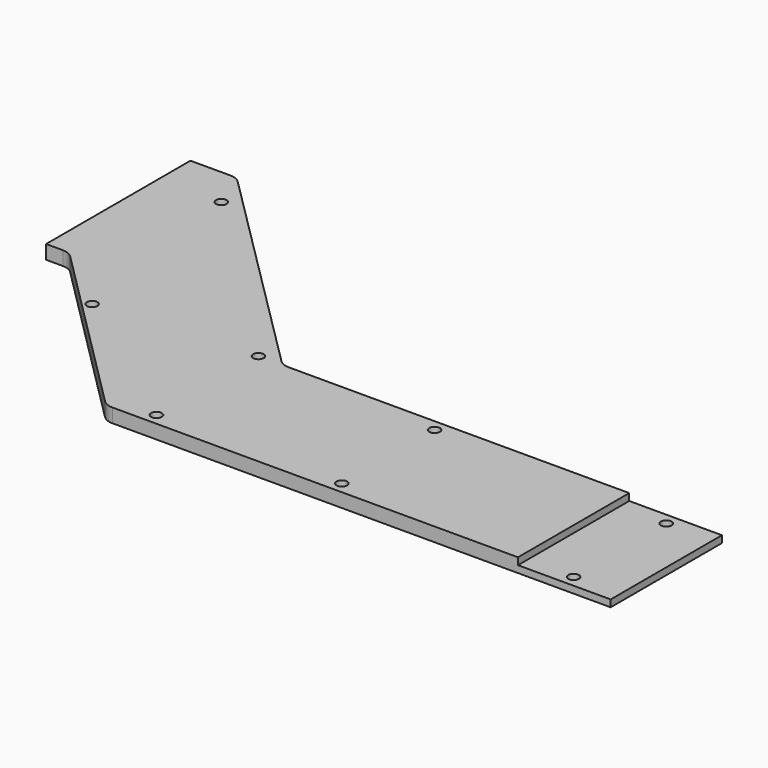
from build123d import *

# Parameters (mm, degrees)
PAD011_DEPTH            = 3
FILLET036_R             = 3.35
SKETCH183_R             = 1.15
POCKET052_DEPTH         = 3
POCKET054_DEPTH         = 5
SKETCH187_W             = 31
SKETCH187_H             = 20
POCKET055_DEPTH         = 1.5
BODY023_ROLL_ANGLE      = 180
BODY023_PLACEMENT_ANGLE = -90


with BuildPart() as part:
    # Sketch182 → Pad011 (new body)
    with BuildSketch(Plane(origin=(0, 0, 0), x_dir=(1, 0, 0), z_dir=(0, 0, -1))):
        Polygon((101.467362, -402.500006), (130.400002, -402.500006), (135.400002, -402.500006), (135.400002, -397.500006), (174.999975, -357.90402), (174.999975, -245), (289.999995, -245), (294.999995, -245), (294.999995, -215), (289.999995, -215), (224.999995, -215), (224.999995, -199.999997), (219.999995, -199.999997), (199.999995, -199.999997), (194.999995, -199.999997), (194.999995, -215.000003), (168.459985, -215.000003), (161.999993, -198.359996), (161.999993, -115.000006), (161.999993, -110.000006), (156.999993, -110.000006), (134.576923, -122.534363), (131.999997, -126.895911), (131.999997, -200.027011), (144.989344, -239.967928), (144.989344, -343.839368), (96.467362, -392.500006), (96.467362, -397.500006), (96.467362, -402.500006), align=None)
    extrude(amount=PAD011_DEPTH)

    # Fillet036
    fillet036_edges = [part.edges().sort_by_distance(p)[0] for p in [
        (194.999995, 215.000003, -1.5),
        (168.459985, 215.000003, -1.5),
        (161.999993, 198.359996, -1.5),
        (161.999993, 110.000006, -1.5),
        (156.999993, 110.000006, -1.5),
        (134.576923, 122.534363, -1.5),
        (131.999997, 126.895911, -1.5),
        (131.999997, 200.027011, -1.5),
        (144.989344, 239.967928, -1.5),
        (144.989344, 343.839368, -1.5),
        (96.467362, 392.500006, -1.5),
        (135.400002, 397.500006, -1.5),
        (174.999975, 357.90402, -1.5),
        (174.999975, 245, -1.5),
        (294.999995, 245, -1.5),
        (294.999995, 215, -1.5),
        (224.999995, 215, -1.5),
    ]]
    fillet(fillet036_edges, radius=FILLET036_R)

    # Sketch183 (on Face5 of Fillet036) → Pocket052 (cut)
    with BuildSketch(Plane(origin=(0, 0, -3), x_dir=(1, 0, 0), z_dir=(0, 0, -1))):
        with Locations((105, -389)):
            Circle(SKETCH183_R)
        with Locations((145, -349)):
            Circle(SKETCH183_R)
        with Locations((147.500002, -309.000005)):
            Circle(SKETCH183_R)
        with Locations((147.500002, -259.000004)):
            Circle(SKETCH183_R)
        with Locations((172.500003, -259.000004)):
            Circle(SKETCH183_R)
        with Locations((172.500003, -309.000005)):
            Circle(SKETCH183_R)
        with Locations((172.500003, -349.000005)):
            Circle(SKETCH183_R)
        with Locations((147.665007, -382.765018)):
            Circle(SKETCH183_R)
        with Locations((178.000003, -242.500004)):
            Circle(SKETCH183_R)
        with Locations((218.000003, -242.500004)):
            Circle(SKETCH183_R)
        with Locations((258.000004, -242.500004)):
            Circle(SKETCH183_R)
        with Locations((258.000004, -217.500003)):
            Circle(SKETCH183_R)
        with Locations((292, -242.500004)):
            Circle(SKETCH183_R)
        with Locations((292.000004, -217.500003)):
            Circle(SKETCH183_R)
        with Locations((292.500004, -230.000003)):
            Circle(SKETCH183_R)
        with Locations((223.000003, -217.000003)):
            Circle(SKETCH183_R)
        with Locations((197, -217)):
            Circle(SKETCH183_R)
        with Locations((166.109996, -217.109995)):
            Circle(SKETCH183_R)
        with Locations((147.500002, -239)):
            Circle(SKETCH183_R)
        with Locations((141, -220)):
            Circle(SKETCH183_R)
        with Locations((134.427551, -201)):
            Circle(SKETCH183_R)
        with Locations((160.149996, -200.999996)):
            Circle(SKETCH183_R)
        with Locations((134.427551, -161)):
            Circle(SKETCH183_R)
        with Locations((159.500002, -161.000002)):
            Circle(SKETCH183_R)
        with Locations((137, -124)):
            Circle(SKETCH183_R)
        with Locations((146.849997, -118.149997)):
            Circle(SKETCH183_R)
        with Locations((159, -113)):
            Circle(SKETCH183_R)
    extrude(amount=-POCKET052_DEPTH, mode=Mode.SUBTRACT)

    # Sketch186 (on Face5 of Pocket052) → Pocket054 (cut)
    with BuildSketch(Plane(origin=(0, 0, -3), x_dir=(1, 0, 0), z_dir=(0, 0, -1))):
        Polygon((175, -249), (130, -249), (130, -100), (170, -100), (170, -190), (300, -190), (300, -249), align=None)
    extrude(amount=-POCKET054_DEPTH, mode=Mode.SUBTRACT)

    # Sketch187 (on Face25 of Pocket054) → Pocket055 (cut)
    with BuildSketch(Plane(origin=(0, 0, -3), x_dir=(1, 0, 0), z_dir=(0, 0, -1))):
        with Locations((159.5, -259)):
            Rectangle(SKETCH187_W, SKETCH187_H)
    extrude(amount=-POCKET055_DEPTH, mode=Mode.SUBTRACT)


with BuildPart() as part_1:
    # Body023 roll: moved
    add(part.part.rotate(Axis((0, 0, 0), (1, 0, 0)), BODY023_ROLL_ANGLE))


with BuildPart() as part_2:
    # Body023 placement: moved
    add(part_1.part.moved(Location((0, 0, -5))).rotate(Axis((0, 0, -5), (0, 0, 1)), BODY023_PLACEMENT_ANGLE))


with BuildPart() as part_3:
    # Clone placement: moved
    add(part_2.part.moved(Location((406.500006, 92.467362, 2))))


solid = part_3.part
